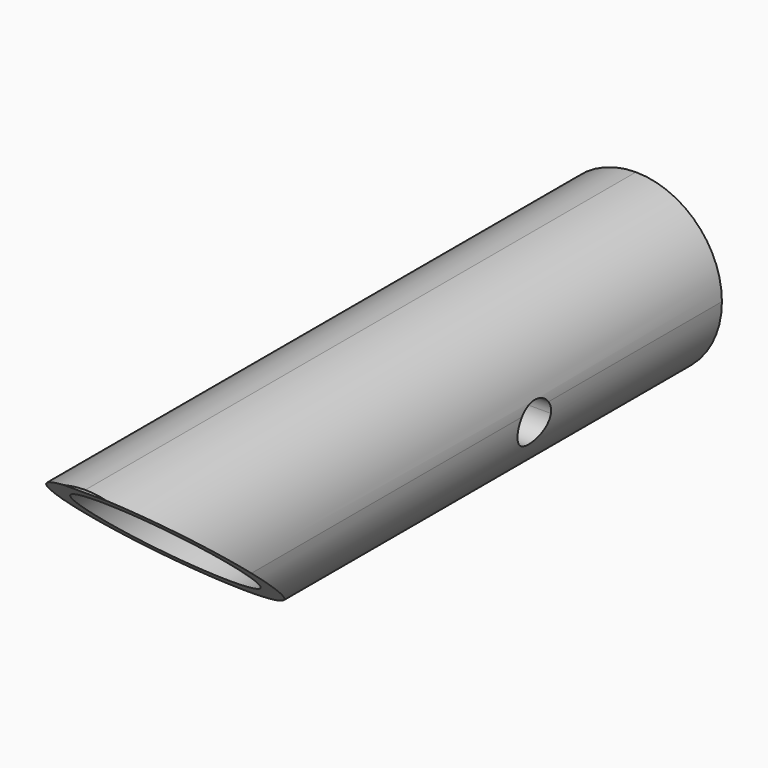
from build123d import *

# Parameters (mm, degrees)
F1_DEPTH       = 127
F3_R           = 12.7
F4_DEPTH       = 40.005
F5_R           = 4.7625
F6_DEPTH       = 31.75
F8_DEPTH       = 25.4
F8_DEPTH_BACK  = 25.4
F10_DEPTH      = 25.4
F10_DEPTH_BACK = 25.4
F12_R          = 12.7
F13_DEPTH      = 7.62
F14_R          = 12.7


with BuildPart() as f1:
    # F0 (on Front) → F1 (new body)
    with BuildSketch(Plane.XZ):
        with BuildLine():
            ThreePointArc((0, 15.875), (-11.2253201513, -11.2253201513), (15.875, 0))
            ThreePointArc((15.875, 0), (11.2253201513, 11.2253201513), (0, 15.875))
        make_face()
        with BuildLine():
            ThreePointArc((12.7, 0), (-8.9802561211, -8.9802561211), (0, 12.7))
            ThreePointArc((0, 12.7), (8.9802561211, 8.9802561211), (12.7, 0))
        make_face(mode=Mode.SUBTRACT)
    extrude(amount=F1_DEPTH)

    # F3 (on offset) → F4 (join)
    with BuildSketch(Plane.XZ.offset(7.62)):
        Circle(F3_R)
    extrude(amount=F4_DEPTH)

    # F5 (on offset) → F6 (cut)
    with BuildSketch(Plane.XZ.offset(7.62)):
        Circle(F5_R)
    extrude(amount=F6_DEPTH, mode=Mode.SUBTRACT)

    # F7 (on Right) → F8 (cut, two sides)
    with BuildSketch(Plane.YZ) as f8_sk:
        Polygon((-89.1579282522, -16.1558650434), (-127.2579282522, 15.5941349566), (-127.2579282522, -16.1558650434), align=None)
    extrude(amount=-F8_DEPTH, mode=Mode.SUBTRACT)
    extrude(f8_sk.sketch, amount=F8_DEPTH_BACK, mode=Mode.SUBTRACT)

    # F9 (on Right) → F10 (cut, two sides)
    with BuildSketch(Plane.YZ) as f10_sk:
        with BuildLine():
            ThreePointArc((-39.9931731398, 0), (-46.6771131967, -3.4545031169), (-39.2481569672, -2.2631778847))
            ThreePointArc((-39.2481569672, -2.2631778847), (-39.4392007377, -1.0718526525), (-39.9931731398, 0))
        make_face()
    extrude(amount=-F10_DEPTH, mode=Mode.SUBTRACT)
    extrude(f10_sk.sketch, amount=F10_DEPTH_BACK, mode=Mode.SUBTRACT)

    # F12 (on offset) → F13 (join)
    with BuildSketch(Plane.XZ.offset(47.625)):
        Circle(F12_R)
    extrude(amount=F13_DEPTH)

    # F14
    f14_edges = [f1.edges().sort_by_distance(p)[0] for p in [
        (0, -55.245, -12.7),
    ]]
    fillet(f14_edges, radius=F14_R)


solid = f1.part
